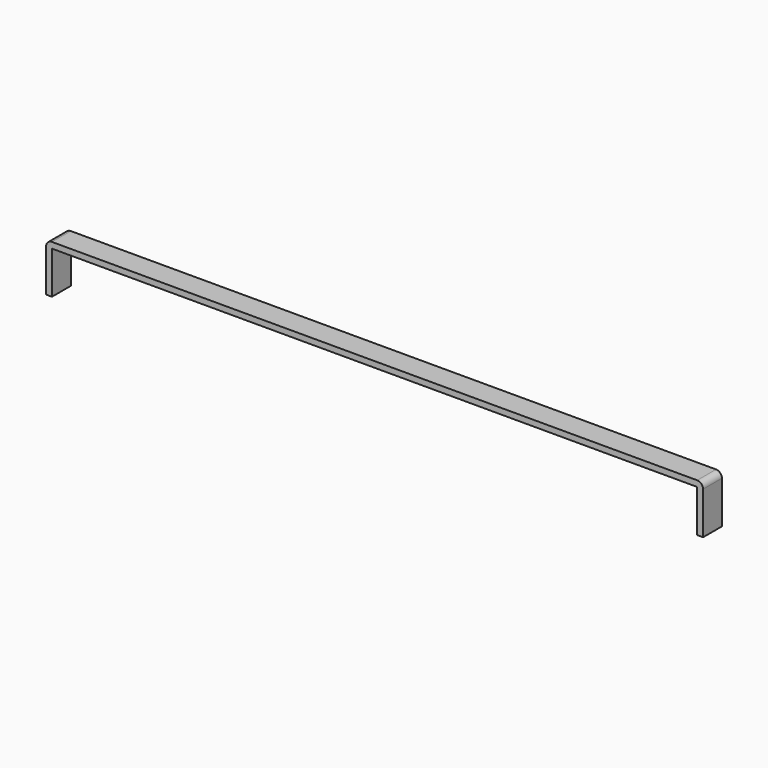
from build123d import *

# Parameters (mm, degrees)
F1_DEPTH = 1.27


with BuildPart() as f1:
    # F0 (on Front) → F1 (new body, symmetric)
    with BuildSketch(Plane.XZ):
        with BuildLine():
            Line((0, -4.572), (0, 0))
            Line((0, 0), (69.596, 0))
            Line((69.596, 0), (69.596, -4.572))
            Line((69.596, -4.572), (70.231, -4.572))
            Line((70.231, -4.572), (70.231, 0))
            ThreePointArc((70.231, 0), (70.0450128061, 0.4490128061), (69.596, 0.635))
            Line((69.596, 0.635), (0, 0.635))
            ThreePointArc((0, 0.635), (-0.4490128061, 0.4490128061), (-0.635, 0))
            Line((-0.635, 0), (-0.635, -4.572))
            Line((-0.635, -4.572), (0, -4.572))
        make_face()
    extrude(amount=F1_DEPTH, both=True)


solid = f1.part
